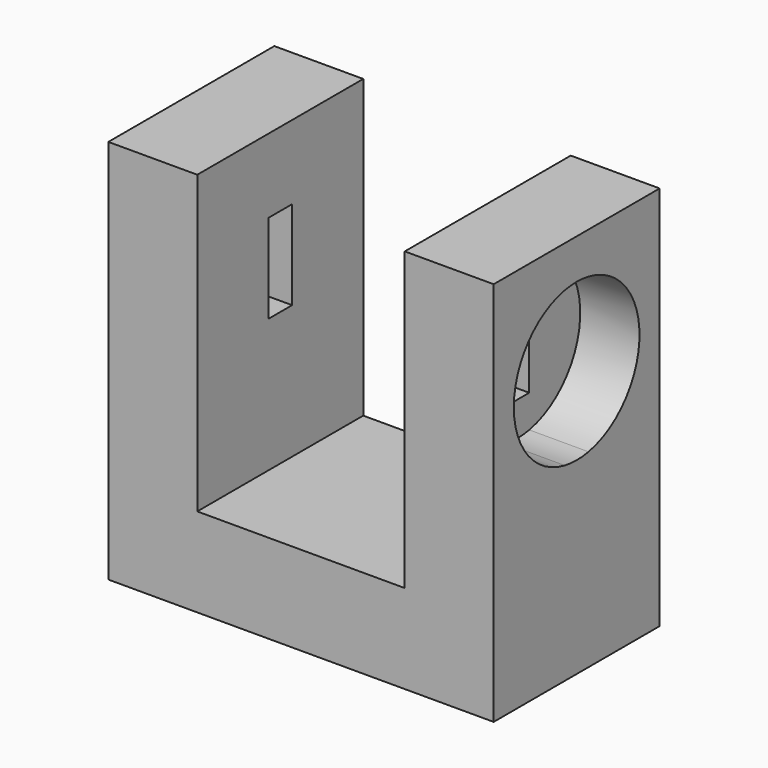
from build123d import *

# Parameters (mm, degrees)
F0_W     = 3
F0_H     = 10
F1_DEPTH = 3.5
F2_W     = 1
F2_H     = 3
F3_DEPTH = 25
F4_DEPTH = 2.1
F5_START = -11
F5_DEPTH = 4


with BuildPart() as f1:
    # F0 (on Front) → F1 (new body, symmetric)
    with BuildSketch(Plane.XZ):
        with Locations((-5.06, 5)):
            Rectangle(F0_W, F0_H)
        Polygon((-3.56, 0), (-6.56, 0), (-6.56, -3), (6.44, -3), (6.44, 0), (3.44, 0), align=None)
        with Locations((4.94, 5)):
            Rectangle(F0_W, F0_H)
    extrude(amount=F1_DEPTH, both=True)

    # F2 (on face) → F3 (cut, symmetric)
    with BuildSketch(Plane(origin=(-6.56, 0, 0), x_dir=(0, -1, 0), z_dir=(-1, 0, 0))):
        with Locations((0, 6)):
            Rectangle(F2_W, F2_H)
    extrude(amount=F3_DEPTH, both=True, mode=Mode.SUBTRACT)

    # F2 (on face) → F4 (cut)
    with BuildSketch(Plane(origin=(-6.56, 0, 0), x_dir=(0, -1, 0), z_dir=(-1, 0, 0))):
        with BuildLine():
            Line((-0.5, 7.5), (-0.5, 8.6024027359))
            ThreePointArc((-0.5, 8.6024027359), (-2.65, 6), (-0.5, 3.3975972641))
            Line((-0.5, 3.3975972641), (-0.5, 4.5))
            Line((-0.5, 4.5), (-0.5, 7.5))
        make_face()
        with BuildLine():
            ThreePointArc((0.5, 3.3975972641), (2.0429757708, 4.312175957), (2.65, 6))
            ThreePointArc((2.65, 6), (2.0429757708, 7.687824043), (0.5, 8.6024027359))
            Line((0.5, 8.6024027359), (0.5, 7.5))
            Line((0.5, 7.5), (0.5, 4.5))
            Line((0.5, 4.5), (0.5, 3.3975972641))
        make_face()
        with BuildLine():
            Line((0.5, 7.5), (0.5, 8.6024027359))
            ThreePointArc((0.5, 8.6024027359), (0, 8.65), (-0.5, 8.6024027359))
            Line((-0.5, 8.6024027359), (-0.5, 7.5))
            Line((-0.5, 7.5), (0.5, 7.5))
        make_face()
        with BuildLine():
            ThreePointArc((-0.5, 3.3975972641), (0, 3.35), (0.5, 3.3975972641))
            Line((0.5, 3.3975972641), (0.5, 4.5))
            Line((0.5, 4.5), (-0.5, 4.5))
            Line((-0.5, 4.5), (-0.5, 3.3975972641))
        make_face()
    extrude(amount=-F4_DEPTH, mode=Mode.SUBTRACT)

    # F2 (on face) → F5 (cut)
    with BuildSketch(Plane(origin=(-6.56, 0, 0), x_dir=(0, -1, 0), z_dir=(-1, 0, 0)).offset(F5_START)):
        with BuildLine():
            Line((-0.5, 7.5), (-0.5, 8.6024027359))
            ThreePointArc((-0.5, 8.6024027359), (-2.65, 6), (-0.5, 3.3975972641))
            Line((-0.5, 3.3975972641), (-0.5, 4.5))
            Line((-0.5, 4.5), (-0.5, 7.5))
        make_face()
        with BuildLine():
            Line((0.5, 7.5), (0.5, 8.6024027359))
            ThreePointArc((0.5, 8.6024027359), (0, 8.65), (-0.5, 8.6024027359))
            Line((-0.5, 8.6024027359), (-0.5, 7.5))
            Line((-0.5, 7.5), (0.5, 7.5))
        make_face()
        with BuildLine():
            ThreePointArc((-0.5, 3.3975972641), (0, 3.35), (0.5, 3.3975972641))
            Line((0.5, 3.3975972641), (0.5, 4.5))
            Line((0.5, 4.5), (-0.5, 4.5))
            Line((-0.5, 4.5), (-0.5, 3.3975972641))
        make_face()
        with BuildLine():
            ThreePointArc((0.5, 3.3975972641), (2.0429757708, 4.312175957), (2.65, 6))
            ThreePointArc((2.65, 6), (2.0429757708, 7.687824043), (0.5, 8.6024027359))
            Line((0.5, 8.6024027359), (0.5, 7.5))
            Line((0.5, 7.5), (0.5, 4.5))
            Line((0.5, 4.5), (0.5, 3.3975972641))
        make_face()
    extrude(amount=-F5_DEPTH, mode=Mode.SUBTRACT)


solid = f1.part
